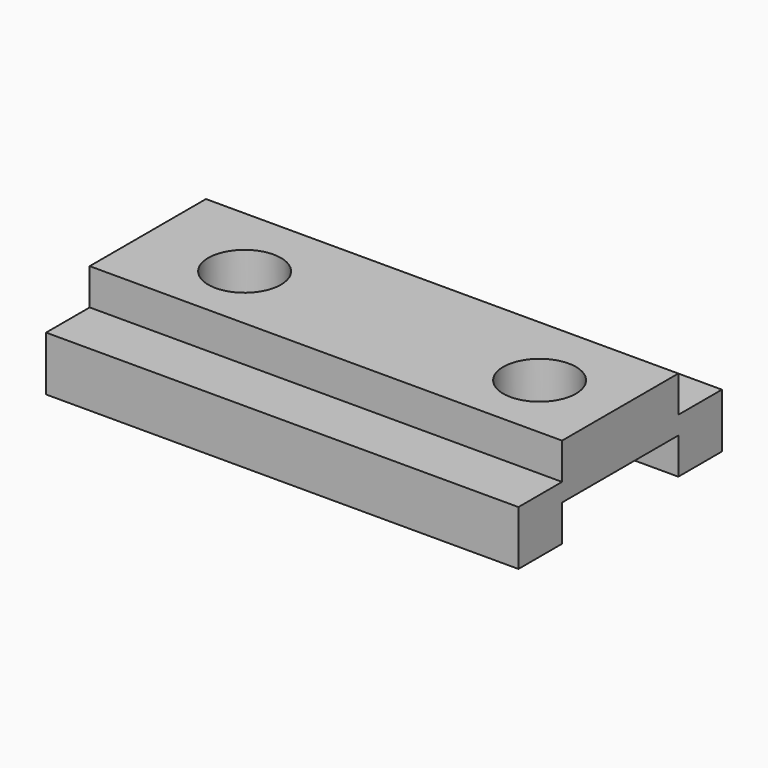
from build123d import *

# Parameters (mm, degrees)
F1_DEPTH = 165.1
F3_R     = 12.7
F4_DEPTH = 19.05


with BuildPart() as f1:
    # F0 (on Right) → F1 (new body)
    with BuildSketch(Plane.YZ):
        Polygon((0, 19.05), (0, 0), (9.220882, 0), (19.05, 0), (19.05, 12.7), (69.85, 12.7), (69.85, 0), (88.9, 0), (88.9, 19.05), (69.85, 19.05), (69.85, 31.75), (19.05, 31.75), (19.05, 19.05), align=None)
    extrude(amount=F1_DEPTH)

    # F3 (on face) → F4 (cut, through all)
    with BuildSketch(Plane.XY.offset(31.75)):
        with Locations((34.925, 43.08036)):
            Circle(F3_R)
        with Locations((138.029739, 43.08036)):
            Circle(F3_R)
    extrude(amount=-F4_DEPTH, mode=Mode.SUBTRACT)


solid = f1.part
